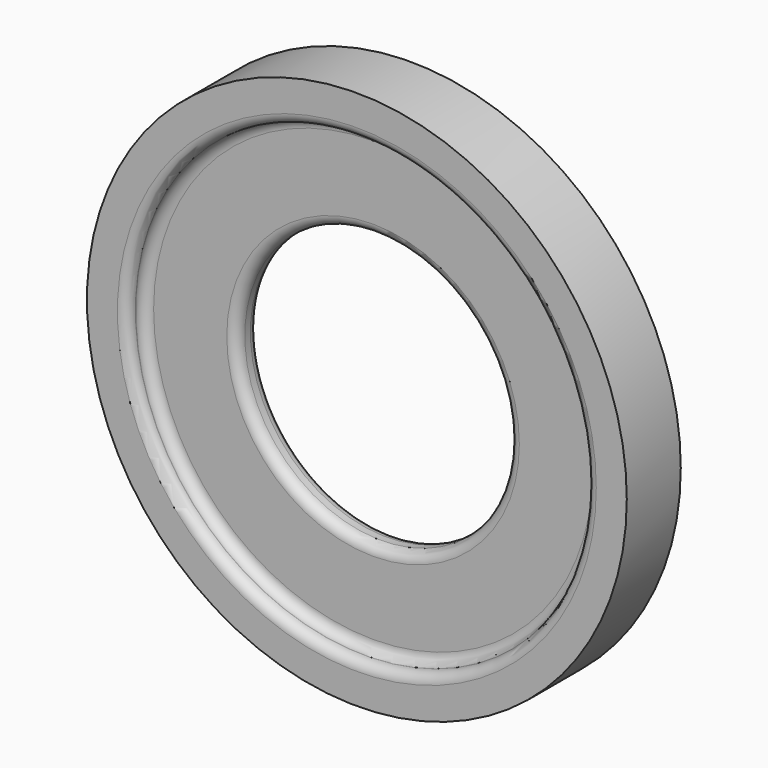
from build123d import *

# Parameters (mm, degrees)
CYLINDER646_R          = 17
CYLINDER646_DEPTH      = 3
CYLINDER645_R          = 20
CYLINDER645_DEPTH      = 1.5
CUT286_PLACEMENT_ANGLE = 90
CYLINDER648_R          = 17
CYLINDER648_DEPTH      = 3
CYLINDER647_R          = 20
CYLINDER647_DEPTH      = 1.5
CUT287_PLACEMENT_ANGLE = 90
CYLINDER436_R          = 10.1
CYLINDER436_DEPTH      = 3
CYLINDER435_R          = 20
CYLINDER435_DEPTH      = 2
CUT219_PLACEMENT_ANGLE = 90
FILLET103_R            = 0.74


with BuildPart() as cylinder646:
    # Cylinder646 → Cylinder646 (new body)
    with BuildSketch(Plane.XY):
        Circle(CYLINDER646_R)
    extrude(amount=CYLINDER646_DEPTH)


with BuildPart() as guiding_aid001:
    # Cylinder645 → Cylinder645 (new body)
    with BuildSketch(Plane.XY):
        Circle(CYLINDER645_R)
    extrude(amount=CYLINDER645_DEPTH)

    # Cut286: cut Cylinder646
    add(cylinder646.part, mode=Mode.SUBTRACT)


with BuildPart() as guiding_aid001_1:
    # Cut286 placement: moved
    add(guiding_aid001.part.moved(Location((125, 3, 175))).rotate(Axis((125, 3, 175), (1, 0, 0)), CUT286_PLACEMENT_ANGLE))


with BuildPart() as cylinder648:
    # Cylinder648 → Cylinder648 (new body)
    with BuildSketch(Plane.XY):
        Circle(CYLINDER648_R)
    extrude(amount=CYLINDER648_DEPTH)


with BuildPart() as guiding_aid002:
    # Cylinder647 → Cylinder647 (new body)
    with BuildSketch(Plane.XY):
        Circle(CYLINDER647_R)
    extrude(amount=CYLINDER647_DEPTH)

    # Cut287: cut Cylinder648
    add(cylinder648.part, mode=Mode.SUBTRACT)


with BuildPart() as guiding_aid002_1:
    # Cut287 placement: moved
    add(guiding_aid002.part.moved(Location((125, -0.5, 175))).rotate(Axis((125, -0.5, 175), (1, 0, 0)), CUT287_PLACEMENT_ANGLE))


with BuildPart() as cylinder436:
    # Cylinder436 → Cylinder436 (new body)
    with BuildSketch(Plane.XY):
        Circle(CYLINDER436_R)
    extrude(amount=CYLINDER436_DEPTH)


with BuildPart() as guiding_aid:
    # Cylinder435 → Cylinder435 (new body)
    with BuildSketch(Plane.XY):
        Circle(CYLINDER435_R)
    extrude(amount=CYLINDER435_DEPTH)

    # Cut219: cut Cylinder436
    add(cylinder436.part, mode=Mode.SUBTRACT)


with BuildPart() as guiding_aid_1:
    # Cut219 placement: moved
    add(guiding_aid.part.moved(Location((125, 1.5, 175))).rotate(Axis((125, 1.5, 175), (1, 0, 0)), CUT219_PLACEMENT_ANGLE))

    # Fusion315: union guiding aid001, guiding aid002
    add(guiding_aid001_1.part)
    add(guiding_aid002_1.part)

    # Fillet103
    fillet103_edges = [guiding_aid_1.edges().sort_by_distance(p)[0] for p in [
        (108, 3, 175),
        (108, -2, 175),
        (108, 1.5, 175),
        (108, -0.5, 175),
        (114.9, 1.5, 175),
        (114.9, -0.5, 175),
    ]]
    fillet(fillet103_edges, radius=FILLET103_R)


solid = guiding_aid_1.part
